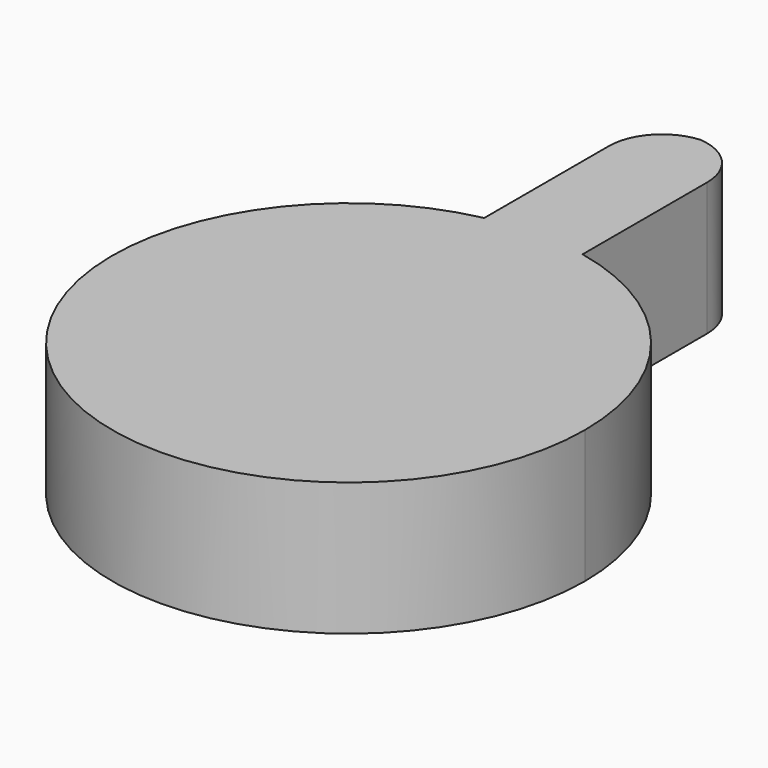
from build123d import *

# Parameters (mm, degrees)
F1_DEPTH = 12.7


with BuildPart() as f1:
    # F0 (on Top) → F1 (new body)
    with BuildSketch(Plane.XY):
        with BuildLine():
            ThreePointArc((-4.691688, 22.048172), (0, 22.541824), (4.691688, 22.048172))
            Line((4.691688, 22.048172), (4.691688, 36.896243))
            ThreePointArc((4.691688, 36.896243), (3.338552, 40.348328), (0, 41.96138))
            ThreePointArc((0, 41.96138), (-3.338552, 40.348328), (-4.691688, 36.896243))
            Line((-4.691688, 36.896243), (-4.691688, 22.048172))
        make_face()
        with BuildLine():
            ThreePointArc((-4.691688, 22.048172), (-14.184051, -17.519889), (22.541824, 0))
            ThreePointArc((22.541824, 0), (17.519889, 14.184051), (4.691688, 22.048172))
            ThreePointArc((4.691688, 22.048172), (0, 22.541824), (-4.691688, 22.048172))
        make_face()
    extrude(amount=F1_DEPTH)


solid = f1.part
